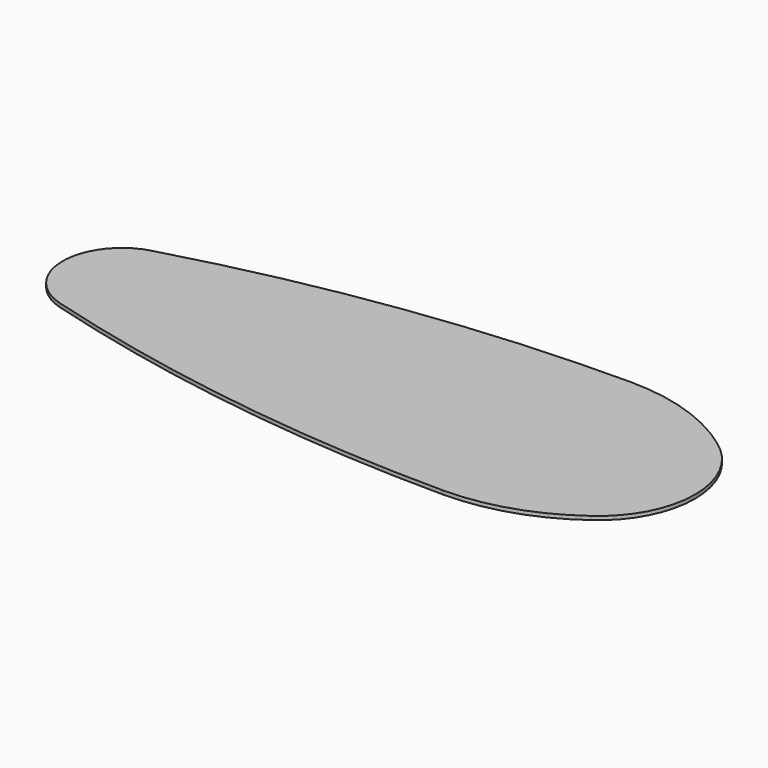
from build123d import *

# Parameters (mm, degrees)
F1_DEPTH = 28.575


with BuildPart() as f1:
    # F0 (on Top) → F1 (new body)
    with BuildSketch(Plane.XY):
        with BuildLine():
            ThreePointArc((-1524, 0), (-1691.1611136261, 353.4250760642), (-2070.4098179833, 448.4121411998))
            ThreePointArc((-2070.4098179833, 448.4121411998), (-2088.6244363783, 443.2445294059), (-2106.83094, 438.0484))
            Line((-2106.83094, 438.0484), (-2106.83094, 439.6006220591))
            ThreePointArc((-2106.83094, 439.6006220591), (-2346.2139077953, 275.3119814247), (-2438.4, 0))
            Line((-2438.4, 0), (-1981.2, 0))
            Line((-1981.2, 0), (-1524, 0))
        make_face()
        with BuildLine():
            ThreePointArc((-2106.3244607875, -439.745050356), (-1705.6778261846, -364.8552750558), (-1524, 0))
            Line((-1524, 0), (-1981.2, 0))
            Line((-1981.2, 0), (-2438.4, 0))
            ThreePointArc((-2438.4, 0), (-2346.2139077953, -275.3119814247), (-2106.83094, -439.6006220591))
            Line((-2106.83094, -439.6006220591), (-2106.83094, -439.60034))
            ThreePointArc((-2106.83094, -439.60034), (-2106.5777011818, -439.6726979363), (-2106.3244607875, -439.745050356))
        make_face()
        with BuildLine():
            Line((-1219.2, 0), (-1219.2, 656.1909205311))
            ThreePointArc((-1219.2000000003, 656.1909205311), (-1646.6877665577, 560.0150560439), (-2070.4098179833, 448.4121411998))
            ThreePointArc((-2070.4098179833, 448.4121411998), (-1691.1611136261, 353.4250760642), (-1524, 0))
            Line((-1524, 0), (-1219.2, 0))
        make_face()
        with BuildLine():
            Line((-1219.2, -657.3077561152), (-1219.2, 0))
            Line((-1219.2, 0), (-1524, 0))
            ThreePointArc((-1524, 0), (-1705.6778261846, -364.8552750558), (-2106.3244607875, -439.745050356))
            ThreePointArc((-2106.3244607875, -439.745050356), (-1664.8175340653, -556.9070223074), (-1219.2000000004, -657.3077561153))
        make_face()
        with BuildLine():
            Line((0, -843.6760814524), (0, 0))
            Line((0, 0), (-1219.2, 0))
            Line((-1219.2, 0), (-1219.2, -657.3077561152))
            ThreePointArc((-1219.2000000004, -657.3077561153), (-611.9780158578, -766.0486231134), (1e-10, -843.6760814524))
        make_face()
        with BuildLine():
            Line((0, 0), (0, 843.1263250013))
            ThreePointArc((-2e-10, 843.1263250013), (-611.9854178342, 765.2164109306), (-1219.2000000003, 656.1909205311))
            Line((-1219.2, 656.1909205311), (-1219.2, 0))
            Line((-1219.2, 0), (0, 0))
        make_face()
        with BuildLine():
            Line((1219.2, 619.125), (1219.2, 904.875))
            ThreePointArc((1219.2, 904.875), (608.820160514, 889.3982447365), (-2e-10, 843.1263250013))
            Line((0, 843.1263250013), (0, 0))
            Line((0, 0), (950.976, 0))
            ThreePointArc((950.976, 0), (1021.3627923923, 315.817516525), (1219.2, 571.8554894377))
            Line((1219.2, 571.8554894376), (1219.2, 619.125))
        make_face()
        with BuildLine():
            Line((950.976, 0), (0, 0))
            Line((0, 0), (0, -843.6760814524))
            ThreePointArc((1e-10, -843.6760814524), (604.5857673073, -889.4591277256), (1210.7065376481, -904.875))
            Line((1210.7065376481, -904.875), (1219.2, -904.875))
            Line((1219.2, -904.875), (1219.2, -619.125))
            Line((1219.2, -619.125), (1219.2, -571.8554894376))
            ThreePointArc((1219.2, -571.8554894377), (1021.3627923923, -315.817516525), (950.976, 0))
        make_face()
        with BuildLine():
            Line((1219.2, -571.8554894376), (1219.2, 0))
            Line((1219.2, 0), (950.976, 0))
            ThreePointArc((950.976, 0), (1021.3627923923, -315.817516525), (1219.2, -571.8554894377))
        make_face()
        with BuildLine():
            Line((1219.2, 0), (1219.2, 571.8554894376))
            ThreePointArc((1219.2, 571.8554894377), (1021.3627923923, 315.817516525), (950.976, 0))
            Line((950.976, 0), (1219.2, 0))
        make_face()
        with BuildLine():
            Line((1694.688, 0), (2438.4, 0))
            ThreePointArc((2438.4, 0), (2354.5121763384, 343.1320376523), (2121.7731464238, 608.8561543157))
            ThreePointArc((2121.7731464238, 608.8561543157), (1664.2253776747, 743.0878599365), (1219.2, 571.8554894377))
            Line((1219.2, 571.8554894376), (1219.2, 0))
            Line((1219.2, 0), (1694.688, 0))
        make_face()
        with BuildLine():
            ThreePointArc((2121.7731464238, 608.8561543157), (1694.1382701061, 828.9805346861), (1219.2, 904.875))
            Line((1219.2, 904.875), (1219.2, 619.125))
            Line((1219.2, 619.125), (1219.2, 571.8554894376))
            ThreePointArc((1219.2, 571.8554894377), (1664.2253776747, 743.0878599365), (2121.7731464238, 608.8561543157))
        make_face()
        with BuildLine():
            ThreePointArc((1219.2, -904.875), (1694.1382701062, -828.9805346861), (2121.7731464239, -608.8561543157))
            ThreePointArc((2121.7731464239, -608.8561543157), (1664.2253776747, -743.0878599365), (1219.2, -571.8554894377))
            Line((1219.2, -571.8554894376), (1219.2, -619.125))
            Line((1219.2, -619.125), (1219.2, -904.875))
        make_face()
        with BuildLine():
            ThreePointArc((2121.7731464239, -608.8561543157), (2354.5121763384, -343.1320376523), (2438.4, 0))
            Line((2438.4, 0), (1694.688, 0))
            Line((1694.688, 0), (1219.2, 0))
            Line((1219.2, 0), (1219.2, -571.8554894376))
            ThreePointArc((1219.2, -571.8554894377), (1664.2253776747, -743.0878599365), (2121.7731464239, -608.8561543157))
        make_face()
    extrude(amount=F1_DEPTH)


solid = f1.part
